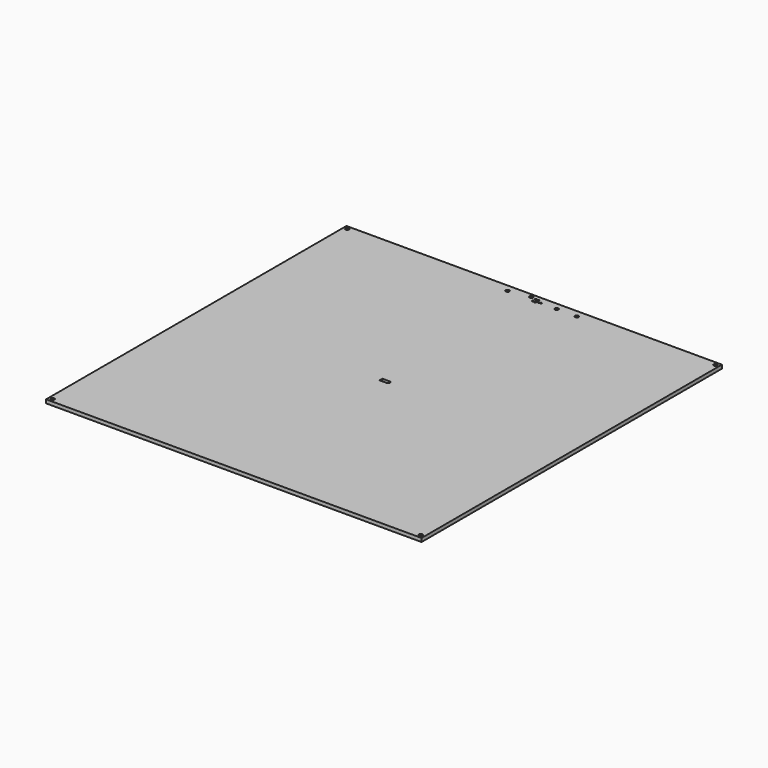
from build123d import *

# Parameters (mm, degrees)
SKETCH001_W       = 314
SKETCH001_H       = 314
PAD_DEPTH         = 3
SKETCH_W          = 4
SKETCH_H          = 15
SKETCH_W_2        = 2
SKETCH_H_2        = 4
PAD001_DEPTH      = 0.3
SKETCH002_R       = 1.5
SKETCH002_R_2     = 0.75
POCKET_DEPTH      = 3.001
POCKET_DEPTH_BACK = -0.001


with BuildPart() as part:
    # Sketch001 → Pad (new body)
    with BuildSketch(Plane(origin=(110.543777, 322.172485, 403.912964), x_dir=(0, -1, 0), z_dir=(0, 0, 1))):
        with Locations((-157, 157)):
            Rectangle(SKETCH001_W, SKETCH001_H)
    extrude(amount=PAD_DEPTH)

    # Sketch → Pad001 (new body)
    with BuildSketch(Plane(origin=(110.543777, 322.172485, 406.912964), x_dir=(0, -1, 0), z_dir=(0, 0, 1))):
        with Locations((-308, 140)):
            Rectangle(SKETCH_W, SKETCH_H)
        with Locations((-308, 180)):
            Rectangle(SKETCH_W, SKETCH_H)
        with Locations((-308, 198)):
            Rectangle(SKETCH_W, SKETCH_H)
        with Locations((-310, 162.5)):
            Rectangle(SKETCH_W_2, SKETCH_H_2)
        with Locations((-307, 162.5)):
            Rectangle(SKETCH_W_2, SKETCH_H_2)
        with Locations((-308, 166.51)):
            Rectangle(SKETCH_W_2, SKETCH_H_2)
    extrude(amount=-PAD001_DEPTH)

    # Sketch002 → Pocket (cut, two sides)
    with BuildSketch(Plane(origin=(110.543777, 322.172485, 406.912964), x_dir=(0, -1, 0), z_dir=(0, 0, 1))) as pocket_sk:
        with Locations((-308, 139.5)):
            Circle(SKETCH002_R)
        with Locations((-311, 157)):
            Circle(SKETCH002_R)
        with Locations((-310, 161.5)):
            Circle(SKETCH002_R_2)
        with Locations((-310, 163.5)):
            Circle(SKETCH002_R_2)
        with Locations((-307, 161.5)):
            Circle(SKETCH002_R_2)
        with Locations((-307, 163.5)):
            Circle(SKETCH002_R_2)
        with Locations((-308, 167.5)):
            Circle(SKETCH002_R_2)
        with Locations((-308, 165.5)):
            Circle(SKETCH002_R_2)
        with Locations((-308, 180.5)):
            Circle(SKETCH002_R)
        with Locations((-308, 197.5)):
            Circle(SKETCH002_R)
        with Locations((-311, 311)):
            Circle(SKETCH002_R)
        with Locations((-311, 3)):
            Circle(SKETCH002_R)
        with Locations((-3, 3)):
            Circle(SKETCH002_R)
        with Locations((-3, 311)):
            Circle(SKETCH002_R)
        with BuildLine():
            Line((-157, 159.25), (-157, 153.25))
            Line((-157, 153.25), (-160, 153.25))
            Line((-160, 159.25), (-160, 153.25))
            ThreePointArc((-157, 159.25), (-158.5, 160.75), (-160, 159.25))
        make_face()
    extrude(amount=-POCKET_DEPTH, mode=Mode.SUBTRACT)
    extrude(pocket_sk.sketch, amount=-POCKET_DEPTH_BACK, mode=Mode.SUBTRACT)


solid = part.part
